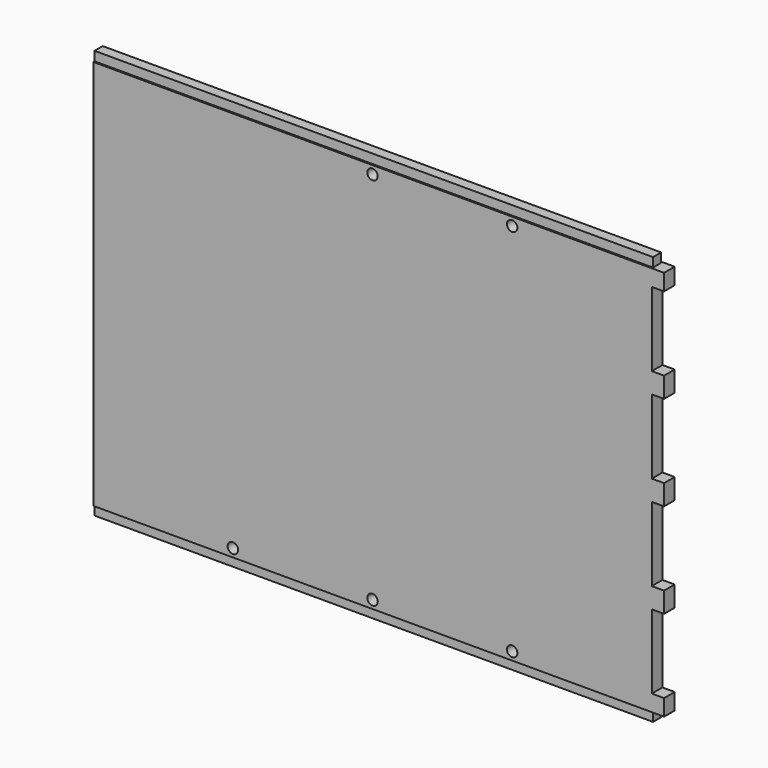
from build123d import *

# Parameters (mm, degrees)
F0_R     = 3.245174
F0_W     = 7.62
F0_H     = 10.16
F0_H_2   = 12.7
F1_DEPTH = 4.1275
F0_W_2   = 346.71
F0_H_3   = 5.715
F2_DEPTH = 3.175


with BuildPart() as f1:
    # F0 (on Front) → F1 (new body, symmetric)
    with BuildSketch(Plane.XZ):
        Polygon((173.355, 121.285), (-173.355, 121.285), (-173.355, -121.285), (173.355, -121.285), (173.355, -111.125), (173.355, -65.0875), (173.355, -52.3875), (173.355, -6.35), (173.355, 6.35), (173.355, 52.3875), (173.355, 65.0875), (173.355, 111.125), align=None)
        with Locations((-86.6902, -116.205)):
            Circle(F0_R, mode=Mode.SUBTRACT)
        with Locations((0, -116.205)):
            Circle(F0_R, mode=Mode.SUBTRACT)
        with Locations((86.6648, -116.205)):
            Circle(F0_R, mode=Mode.SUBTRACT)
        with Locations((-0.0254, 116.205)):
            Circle(F0_R, mode=Mode.SUBTRACT)
        with Locations((86.6648, 116.205)):
            Circle(F0_R, mode=Mode.SUBTRACT)
        with Locations((177.165, 116.205)):
            Rectangle(F0_W, F0_H)
        with Locations((177.165, 58.7375)):
            Rectangle(F0_W, F0_H_2)
        with Locations((177.165, 0)):
            Rectangle(F0_W, F0_H_2)
        with Locations((177.165, -58.7375)):
            Rectangle(F0_W, F0_H_2)
        with Locations((177.165, -116.205)):
            Rectangle(F0_W, F0_H)
    extrude(amount=F1_DEPTH, both=True)

    # F0 (on Front) → F2 (join, symmetric)
    with BuildSketch(Plane.XZ):
        with Locations((0, 124.1425)):
            Rectangle(F0_W_2, F0_H_3)
        with Locations((0, -124.1425)):
            Rectangle(F0_W_2, F0_H_3)
    extrude(amount=F2_DEPTH, both=True)


solid = f1.part
